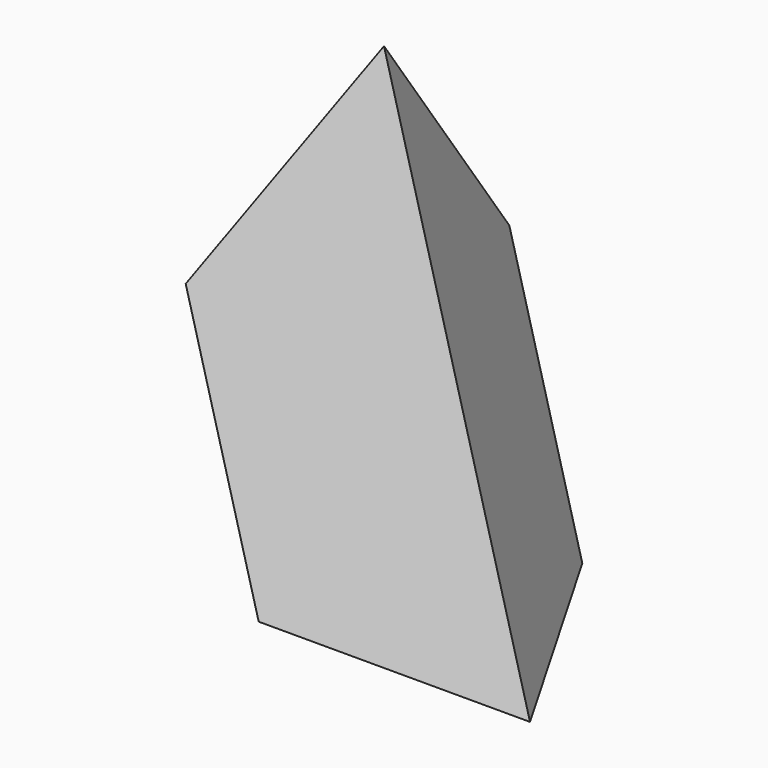
from build123d import *

# Parameters (mm, degrees)
F7_DEPTH = 4


with BuildPart() as f3:
    # F0 (on Top) → F3 section 0
    with BuildSketch(Plane.XY, mode=Mode.PRIVATE) as f3_s0:
        Polygon((20, 34.6410161514), (0, 0), (40, 0), align=None)
    loft([f3_s0.sketch, Vertex(20, 11.5470053838, 32.6598632371)])

    # F5: sweep along a path in F5_path
    with BuildLine(Plane(origin=(0, 0, 0), x_dir=(-0.5, -0.8660254038, 0), z_dir=(0.8660254038, -0.5, 0))) as f5_path:
        Line((0, 0), (-40, 0))
    # F4 (on face) → F5 (sweep, cut)
    with BuildSketch(Plane(origin=(26.6666666667, 15.3960071784, 10.886621079), x_dir=(-0.4364357805, 0.8819171037, -0.1781741613), z_dir=(0.8164965809, 0.4714045208, 0.3333333333))):
        Polygon((2.1821789024, -11.3389341903), (21.8217890236, -7.5592894602), (8.7287156094, 7.5592894602), align=None)
    sweep(path=f5_path.line, mode=Mode.SUBTRACT)

    # F6 (on face) → F7 (join)
    with BuildSketch(Plane(origin=(10, -5.7735026919, 8.1649658093), x_dir=(-0.316227766, -0.9128709292, -0.2581988897), z_dir=(-0.7071067812, 0.4082482905, -0.5773502692))):
        with BuildLine():
            ThreePointArc((-17.4084183768, -3.1940601518), (-20.0804631421, -3.0041637772), (-22.1041611295, -4.7593077361))
            Line((-22.1041611295, -4.7593077361), (-18.973665961, -6.3245553203))
            Line((-18.973665961, -6.3245553203), (-17.4084183768, -3.1940601518))
        make_face()
        with BuildLine():
            Line((-17.4084183768, -3.1940601518), (-18.973665961, -6.3245553203))
            Line((-18.973665961, -6.3245553203), (-15.8431707925, -7.8898029046))
            ThreePointArc((-15.8431707925, -7.8898029046), (-15.5672944979, -7.1286905423), (-15.473665961, -6.3245553203))
            ThreePointArc((-15.473665961, -6.3245553203), (-15.9963881318, -4.4844964279), (-17.4084183768, -3.1940601518))
        make_face()
        with BuildLine():
            Line((-18.973665961, -6.3245553203), (-22.1041611295, -4.7593077361))
            ThreePointArc((-22.1041611295, -4.7593077361), (-22.2940575042, -7.4313525014), (-20.5389135453, -9.4550504888))
            Line((-20.5389135453, -9.4550504888), (-18.973665961, -6.3245553203))
        make_face()
        with BuildLine():
            Line((-15.8431707925, -7.8898029046), (-18.973665961, -6.3245553203))
            Line((-18.973665961, -6.3245553203), (-20.5389135453, -9.4550504888))
            ThreePointArc((-20.5389135453, -9.4550504888), (-17.86686878, -9.6449468635), (-15.8431707925, -7.8898029046))
        make_face()
    extrude(amount=F7_DEPTH)


solid = f3.part
